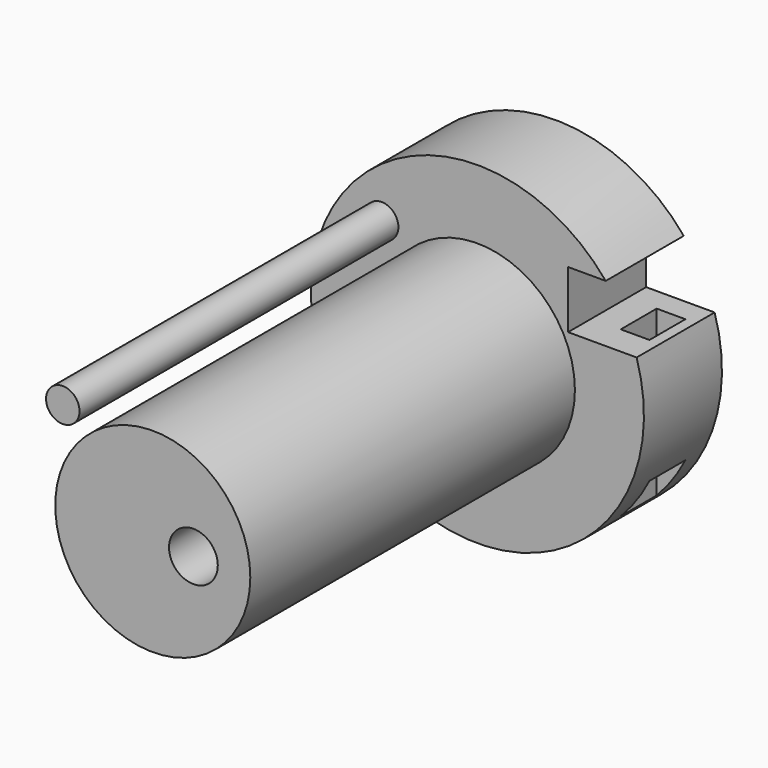
from build123d import *

# Parameters (mm, degrees)
F0_R     = 65.066172
F1_DEPTH = 38.1
F2_R     = 38.1
F2_R_2   = 9.525
F3_DEPTH = 158.496
F4_R     = 6.537094
F5_DEPTH = 155.702
F6_W     = 100.18133
F6_H     = 22.402564
F7_DEPTH = 38.101
F8_W     = 11.216447
F8_H     = 17.543803
F9_DEPTH = 84.131507


with BuildPart() as f1:
    # F0 (on Front) → F1 (new body)
    with BuildSketch(Plane.XZ):
        Circle(F0_R)
    extrude(amount=F1_DEPTH)

    # F2 (on face) → F3 (join)
    with BuildSketch(Plane.XZ.offset(38.1)):
        Circle(F2_R)
        with Locations((15.875, 0)):
            Circle(F2_R_2, mode=Mode.SUBTRACT)
    extrude(amount=F3_DEPTH)

    # F4 (on face) → F5 (join)
    with BuildSketch(Plane.XZ.offset(38.1)):
        with Locations((-37.386458, 33.612467)):
            Circle(F4_R)
    extrude(amount=F5_DEPTH)

    # F6 (on face) → F7 (cut, through all)
    with BuildSketch(Plane.XZ.offset(38.1)):
        with Locations((85.523775, 30.265617)):
            Rectangle(F6_W, F6_H)
    extrude(amount=-F7_DEPTH, mode=Mode.SUBTRACT)

    # F8 (on face) → F9 (cut, through all)
    with BuildSketch(Plane.XY.offset(19.064335)):
        with Locations((52.434615, -17.852365)):
            Rectangle(F8_W, F8_H)
    extrude(amount=-F9_DEPTH, mode=Mode.SUBTRACT)


solid = f1.part
